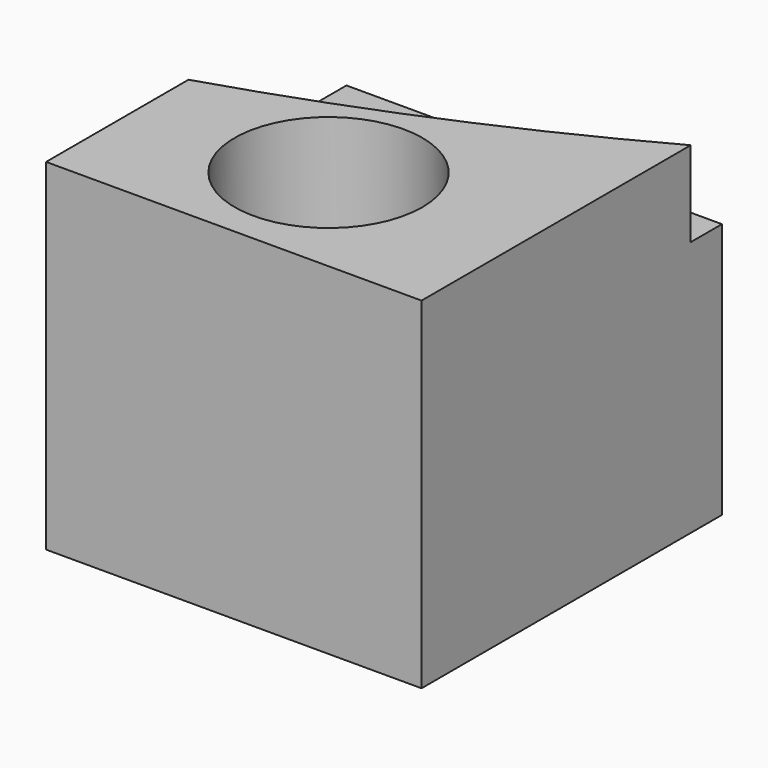
from build123d import *

# Parameters (mm, degrees)
F0_W     = 22
F0_H     = 22
F0_R     = 2.75
F1_DEPTH = 20
F2_R     = 5.5
F2_R_2   = 2.75
F3_DEPTH = 15
F5_DEPTH = 5


with BuildPart() as f1:
    # F0 (on Top) → F1 (new body)
    with BuildSketch(Plane.XY):
        with Locations((-11, -11)):
            Rectangle(F0_W, F0_H)
        with Locations((-11.25, -14.75)):
            Circle(F0_R, mode=Mode.SUBTRACT)
    extrude(amount=F1_DEPTH)

    # F2 (on face) → F3 (cut)
    with BuildSketch(Plane.XY.offset(20)):
        with Locations((-11.25, -14.75)):
            Circle(F2_R)
        with Locations((-11.25, -14.75)):
            Circle(F2_R_2, mode=Mode.SUBTRACT)
    extrude(amount=-F3_DEPTH, mode=Mode.SUBTRACT)

    # F4 (on face) → F5 (cut)
    with BuildSketch(Plane.XY.offset(20)):
        with BuildLine():
            Line((0, 0), (-22, 0))
            Line((-22, 0), (-22, -11.5693575736))
            ThreePointArc((-22, -11.5693575736), (-10.7684476262, -7.4750665799), (0, -2.2835809364))
            Line((0, -2.2835809364), (0, 0))
        make_face()
    extrude(amount=-F5_DEPTH, mode=Mode.SUBTRACT)


solid = f1.part
